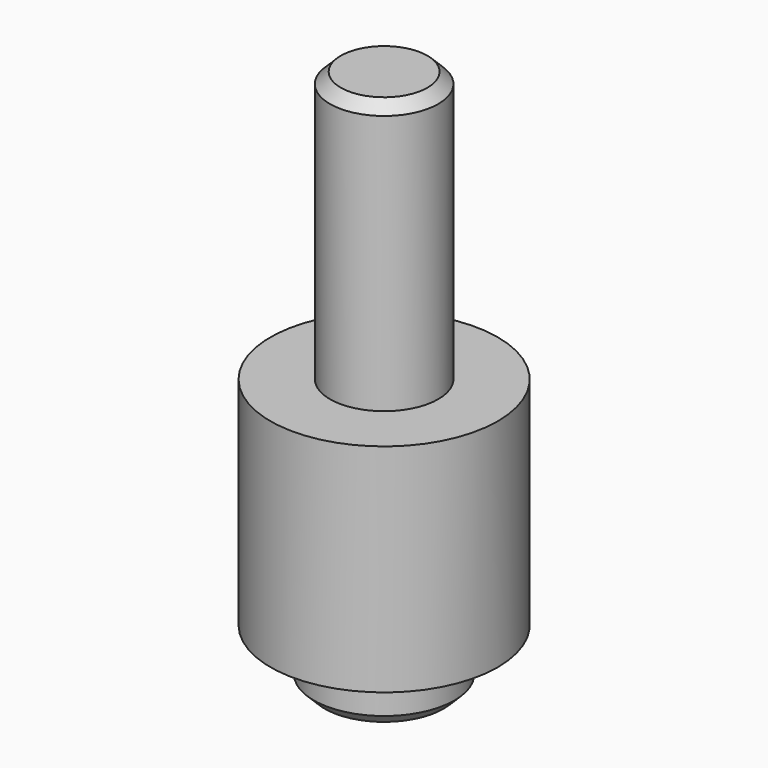
from build123d import *

# Parameters (mm, degrees)
F0_R     = 5
F1_DEPTH = 25
F0_R_2   = 6.5
F2_DEPTH = 25
F0_R_3   = 8
F3_DEPTH = 5
F0_R_4   = 10.5
F4_DEPTH = 20
F5_SIZE  = 1


with BuildPart() as f1:
    # F0 (on Top) → F1 (new body)
    with BuildSketch(Plane.XY):
        Circle(F0_R)
    extrude(amount=F1_DEPTH)

    # F0 (on Top) → F2 (join)
    with BuildSketch(Plane.XY):
        Circle(F0_R_2)
        Circle(F0_R, mode=Mode.SUBTRACT)
        Circle(F0_R)
    extrude(amount=-F2_DEPTH)

    # F0 (on Top) → F3 (join)
    with BuildSketch(Plane.XY):
        Circle(F0_R_3)
        Circle(F0_R_2, mode=Mode.SUBTRACT)
    extrude(amount=-F3_DEPTH)

    # F0 (on Top) → F4 (join)
    with BuildSketch(Plane.XY):
        Circle(F0_R_4)
        Circle(F0_R_3, mode=Mode.SUBTRACT)
    extrude(amount=-F4_DEPTH)

    # F5
    f5_edges = [f1.edges().sort_by_distance(p)[0] for p in [
        (-8, 0, -20),
        (-6.5, 0, -25),
        (-5, 0, 25),
    ]]
    chamfer(f5_edges, length=F5_SIZE)


solid = f1.part
